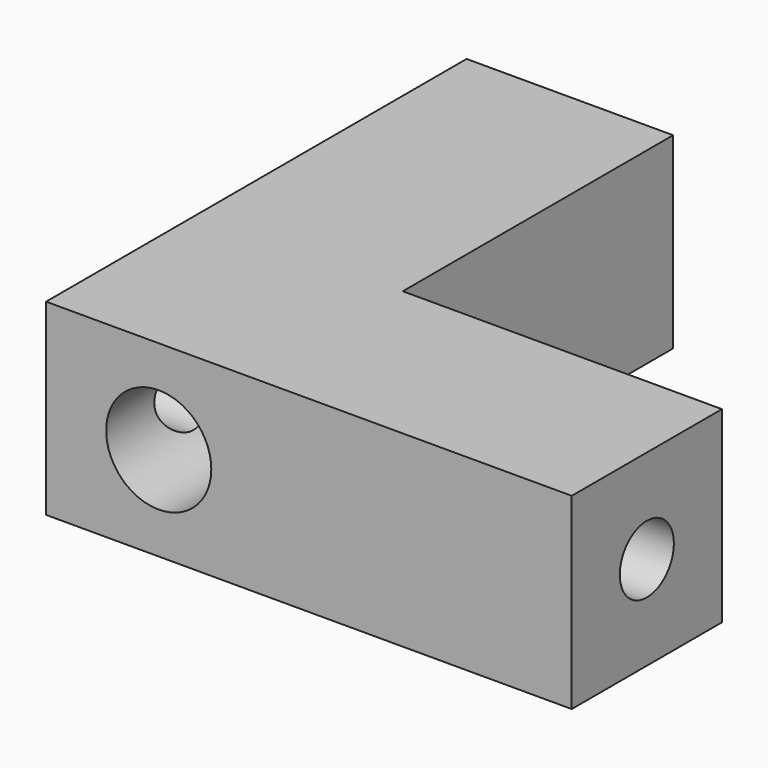
from build123d import *

# Parameters (mm, degrees)
F0_W     = 25
F0_H     = 25
F0_R     = 7
F0_R_2   = 4.5
F0_W_2   = 2.5
F1_DEPTH = 70
F2_DEPTH = 40
F0_W_3   = 42.5
F3_DEPTH = 25
F4_R     = 4.5
F5_DEPTH = 70.001


with BuildPart() as f1:
    # F0 (on Front) → F1 (new body)
    with BuildSketch(Plane.XZ):
        with Locations((-20, 0)):
            Rectangle(F0_W, F0_H)
        with Locations((-20, 0)):
            Circle(F0_R, mode=Mode.SUBTRACT)
        with Locations((-20, 0)):
            Circle(F0_R)
        with Locations((-20, 0)):
            Circle(F0_R_2, mode=Mode.SUBTRACT)
        with Locations((-33.75, 0)):
            Rectangle(F0_W_2, F0_H)
    extrude(amount=-F1_DEPTH)

    # F0 (on Front) → F2 (cut)
    with BuildSketch(Plane.XZ):
        with Locations((-20, 0)):
            Circle(F0_R)
        with Locations((-20, 0)):
            Circle(F0_R_2, mode=Mode.SUBTRACT)
    extrude(amount=-F2_DEPTH, mode=Mode.SUBTRACT)

    # F0 (on Front) → F3 (join)
    with BuildSketch(Plane.XZ):
        with Locations((13.75, 0)):
            Rectangle(F0_W_3, F0_H)
    extrude(amount=-F3_DEPTH)

    # F4 (on face) → F5 (cut, through all)
    with BuildSketch(Plane.YZ.offset(35)):
        with Locations((12.5, 0)):
            Circle(F4_R)
    extrude(amount=-F5_DEPTH, mode=Mode.SUBTRACT)


solid = f1.part
